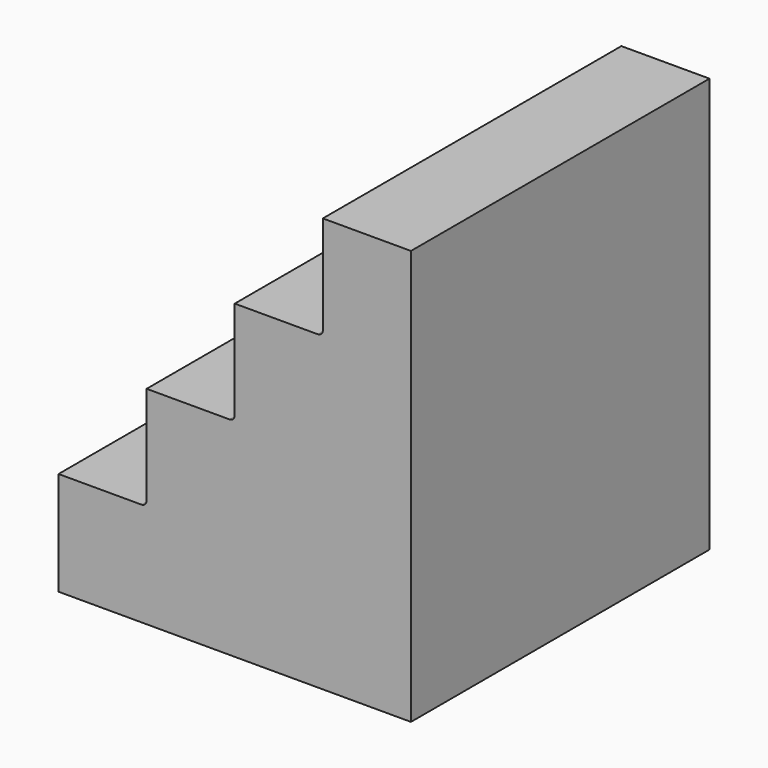
from build123d import *

# Parameters (mm, degrees)
F1_DEPTH = 914.4
F2_T     = -12.7
F3_R     = 12.7


with BuildPart() as f1:
    # F0 (on Front) → F1 (new body)
    with BuildSketch(Plane.XZ):
        Polygon((-863.6, 0), (0, 0), (0, 1016), (-215.9, 1016), (-215.9, 762), (-431.8, 762), (-431.8, 508), (-647.7, 508), (-647.7, 254), (-863.6, 254), align=None)
    extrude(amount=F1_DEPTH)

    # F2
    f2_openings = [f1.faces().sort_by_distance(p)[0] for p in [
        (-431.8, -457.2, 0),
    ]]
    offset(amount=F2_T, openings=f2_openings, kind=Kind.INTERSECTION)

    # F3
    f3_edges = [f1.edges().sort_by_distance(p)[0] for p in [
        (-647.7, -457.2, 254),
        (-431.8, -457.2, 508),
        (-215.9, -457.2, 762),
    ]]
    fillet(f3_edges, radius=F3_R)


solid = f1.part
